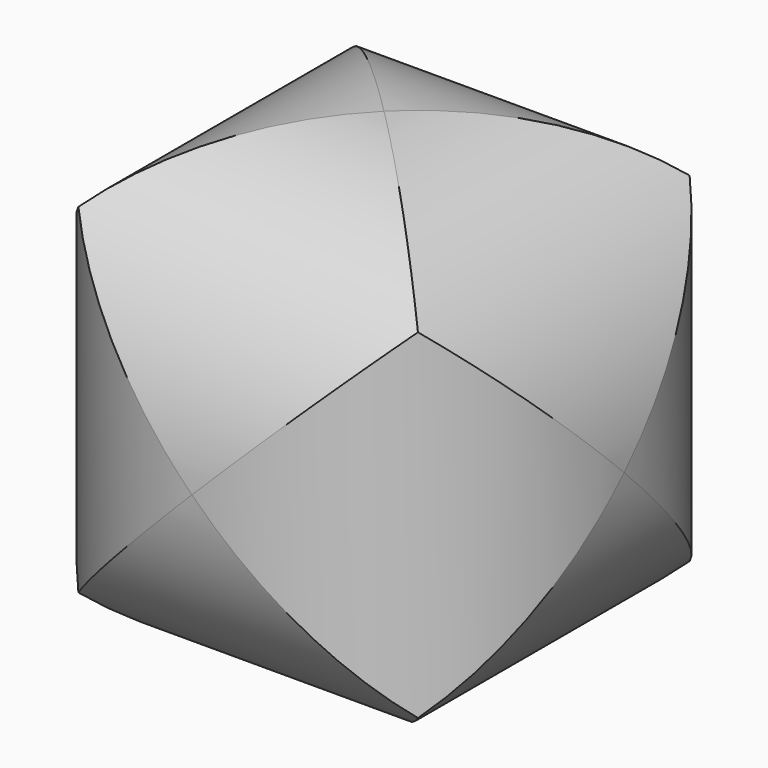
from build123d import *

# Parameters (mm, degrees)
F0_R     = 127
F3_DEPTH = 127
F1_R     = 127
F4_DEPTH = 127
F2_R     = 127
F5_DEPTH = 127


with BuildPart() as f3:
    # F0 (on Top) → F3 (new body, symmetric)
    with BuildSketch(Plane.XY):
        Circle(F0_R)
    extrude(amount=F3_DEPTH, both=True)

    # F1 (on Front) → F4 (intersect, symmetric)
    with BuildSketch(Plane.XZ):
        Circle(F1_R)
    extrude(amount=F4_DEPTH, both=True, mode=Mode.INTERSECT)

    # F2 (on Right) → F5 (intersect, symmetric)
    with BuildSketch(Plane.YZ):
        Circle(F2_R)
    extrude(amount=F5_DEPTH, both=True, mode=Mode.INTERSECT)


solid = f3.part
